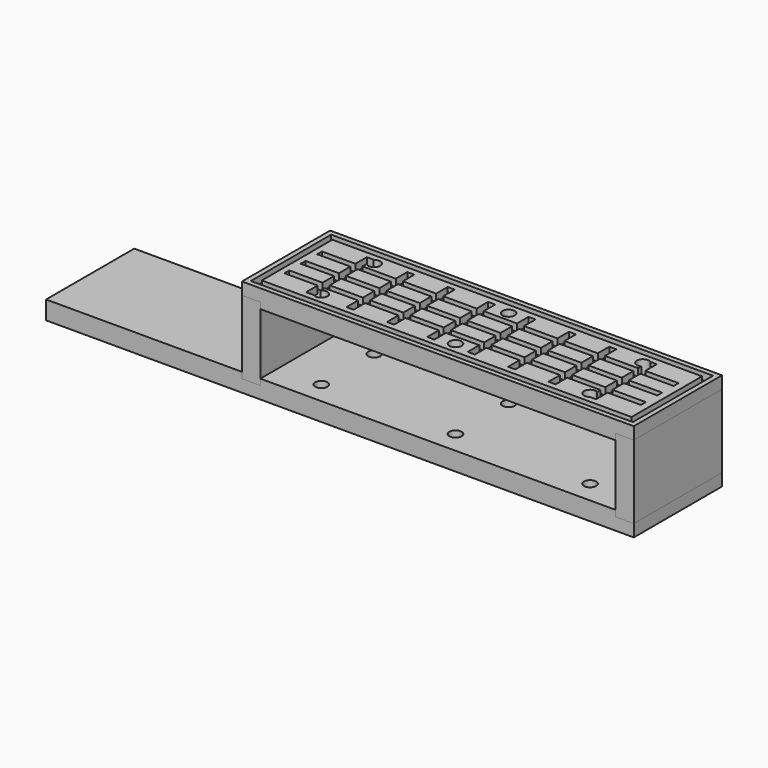
from build123d import *

# Parameters (mm, degrees)
F1_DEPTH = 114.3
F2_DEPTH = 114.3
F3_W     = 599.44
F3_H     = 104.14
F3_W_2   = 586.74
F3_H_2   = 91.44
F3_W_3   = 576.58
F3_H_3   = 81.28
F3_W_4   = 34.30524
F3_H_4   = 11.9109907751
F3_H_5   = 12.8405046124
F3_H_6   = 11.938
F4_DEPTH = 7.62
F5_R     = 6.35
F6_DEPTH = 101.601
F7_W     = 396.24
F7_H     = 104.14
F7_W_2   = 383.54
F7_H_2   = 91.44
F7_W_3   = 34.544
F7_H_3   = 14.9225
F8_DEPTH = 7.62


with BuildPart() as f1:
    # F0 (on Front) → F1 (new body)
    with BuildSketch(Plane.XZ):
        Polygon((203.2, 38.1), (203.2, 50.8), (-203.2, 50.8), (-203.2, 38.1), (-184.15, 38.1), (-184.15, 31.75), (184.15, 31.75), (184.15, 38.1), align=None)
    extrude(amount=-F1_DEPTH)


with BuildPart() as f1b:
    # F0 (on Front) → F1, piece 2 (new body)
    with BuildSketch(Plane.XZ):
        Polygon((203.2, -50.8), (203.2, -38.1), (184.15, -38.1), (184.15, -31.75), (-184.15, -31.75), (-184.15, -38.1), (-203.2, -38.1), (-203.2, -31.75), (-406.4, -31.75), (-406.4, -50.8), (-203.2, -50.8), align=None)
    extrude(amount=-F1_DEPTH)

    # F3 (on face) → F4 (cut)
    with BuildSketch(Plane(origin=(0, 0, -50.8), x_dir=(1, 0, 0), z_dir=(0, 0, -1))):
        with Locations((-101.6, -57.15)):
            Rectangle(F3_W, F3_H)
        with Locations((-101.6, -57.15)):
            Rectangle(F3_W_2, F3_H_2, mode=Mode.SUBTRACT)
        with Locations((-101.6, -57.15)):
            Rectangle(F3_W_3, F3_H_3)
        with Locations((-366.38738, -85.4845046124)):
            Rectangle(F3_W_4, F3_H_4, mode=Mode.SUBTRACT)
        with Locations((-325.65086, -85.4845046124)):
            Rectangle(F3_W_4, F3_H_4, mode=Mode.SUBTRACT)
        with Locations((-284.91434, -85.4845046124)):
            Rectangle(F3_W_4, F3_H_4, mode=Mode.SUBTRACT)
        with Locations((-366.38738, -66.7587569187)):
            Rectangle(F3_W_4, F3_H_5, mode=Mode.SUBTRACT)
        with Locations((-325.65086, -66.7587569187)):
            Rectangle(F3_W_4, F3_H_5, mode=Mode.SUBTRACT)
        with Locations((-284.91434, -66.7587569187)):
            Rectangle(F3_W_4, F3_H_5, mode=Mode.SUBTRACT)
        with Locations((-244.17782, -85.4845046124)):
            Rectangle(F3_W_4, F3_H_4, mode=Mode.SUBTRACT)
        with Locations((-203.4413, -85.4845046124)):
            Rectangle(F3_W_4, F3_H_4, mode=Mode.SUBTRACT)
        with Locations((-162.70478, -85.4845046124)):
            Rectangle(F3_W_4, F3_H_4, mode=Mode.SUBTRACT)
        with Locations((-121.96826, -85.4845046124)):
            Rectangle(F3_W_4, F3_H_4, mode=Mode.SUBTRACT)
        with Locations((-244.17782, -66.7587569187)):
            Rectangle(F3_W_4, F3_H_5, mode=Mode.SUBTRACT)
        with Locations((-203.4413, -66.7587569187)):
            Rectangle(F3_W_4, F3_H_5, mode=Mode.SUBTRACT)
        with Locations((-162.70478, -66.7587569187)):
            Rectangle(F3_W_4, F3_H_5, mode=Mode.SUBTRACT)
        with Locations((-121.96826, -66.7587569187)):
            Rectangle(F3_W_4, F3_H_5, mode=Mode.SUBTRACT)
        with Locations((-81.23174, -85.4845046124)):
            Rectangle(F3_W_4, F3_H_4, mode=Mode.SUBTRACT)
        with Locations((-40.49522, -85.4845046124)):
            Rectangle(F3_W_4, F3_H_4, mode=Mode.SUBTRACT)
        with Locations((0.2413, -85.4845046124)):
            Rectangle(F3_W_4, F3_H_4, mode=Mode.SUBTRACT)
        with Locations((40.97782, -85.4845046124)):
            Rectangle(F3_W_4, F3_H_4, mode=Mode.SUBTRACT)
        with Locations((-81.23174, -66.7587569187)):
            Rectangle(F3_W_4, F3_H_5, mode=Mode.SUBTRACT)
        with Locations((-40.49522, -66.7587569187)):
            Rectangle(F3_W_4, F3_H_5, mode=Mode.SUBTRACT)
        with Locations((0.2413, -66.7587569187)):
            Rectangle(F3_W_4, F3_H_5, mode=Mode.SUBTRACT)
        with Locations((40.97782, -66.7587569187)):
            Rectangle(F3_W_4, F3_H_5, mode=Mode.SUBTRACT)
        with Locations((81.71434, -85.4845046124)):
            Rectangle(F3_W_4, F3_H_4, mode=Mode.SUBTRACT)
        with Locations((122.45086, -85.4845046124)):
            Rectangle(F3_W_4, F3_H_4, mode=Mode.SUBTRACT)
        with Locations((163.18738, -85.4845046124)):
            Rectangle(F3_W_4, F3_H_4, mode=Mode.SUBTRACT)
        with Locations((81.71434, -66.7587569187)):
            Rectangle(F3_W_4, F3_H_5, mode=Mode.SUBTRACT)
        with Locations((122.45086, -66.7587569187)):
            Rectangle(F3_W_4, F3_H_5, mode=Mode.SUBTRACT)
        with Locations((163.18738, -66.7587569187)):
            Rectangle(F3_W_4, F3_H_5, mode=Mode.SUBTRACT)
        with Locations((-366.38738, -47.5682523062)):
            Rectangle(F3_W_4, F3_H_5, mode=Mode.SUBTRACT)
        with Locations((-325.65086, -47.5682523062)):
            Rectangle(F3_W_4, F3_H_5, mode=Mode.SUBTRACT)
        with Locations((-284.91434, -47.5682523062)):
            Rectangle(F3_W_4, F3_H_5, mode=Mode.SUBTRACT)
        with Locations((-366.38738, -28.829)):
            Rectangle(F3_W_4, F3_H_6, mode=Mode.SUBTRACT)
        with Locations((-325.65086, -28.829)):
            Rectangle(F3_W_4, F3_H_6, mode=Mode.SUBTRACT)
        with Locations((-284.91434, -28.829)):
            Rectangle(F3_W_4, F3_H_6, mode=Mode.SUBTRACT)
        with Locations((-244.17782, -47.5682523062)):
            Rectangle(F3_W_4, F3_H_5, mode=Mode.SUBTRACT)
        with Locations((-203.4413, -47.5682523062)):
            Rectangle(F3_W_4, F3_H_5, mode=Mode.SUBTRACT)
        with Locations((-162.70478, -47.5682523062)):
            Rectangle(F3_W_4, F3_H_5, mode=Mode.SUBTRACT)
        with Locations((-121.96826, -47.5682523062)):
            Rectangle(F3_W_4, F3_H_5, mode=Mode.SUBTRACT)
        with Locations((-244.17782, -28.829)):
            Rectangle(F3_W_4, F3_H_6, mode=Mode.SUBTRACT)
        with Locations((-203.4413, -28.829)):
            Rectangle(F3_W_4, F3_H_6, mode=Mode.SUBTRACT)
        with Locations((-162.70478, -28.829)):
            Rectangle(F3_W_4, F3_H_6, mode=Mode.SUBTRACT)
        with Locations((-121.96826, -28.829)):
            Rectangle(F3_W_4, F3_H_6, mode=Mode.SUBTRACT)
        with Locations((-81.23174, -47.5682523062)):
            Rectangle(F3_W_4, F3_H_5, mode=Mode.SUBTRACT)
        with Locations((-40.49522, -47.5682523062)):
            Rectangle(F3_W_4, F3_H_5, mode=Mode.SUBTRACT)
        with Locations((0.2413, -47.5682523062)):
            Rectangle(F3_W_4, F3_H_5, mode=Mode.SUBTRACT)
        with Locations((40.97782, -47.5682523062)):
            Rectangle(F3_W_4, F3_H_5, mode=Mode.SUBTRACT)
        with Locations((-81.23174, -28.829)):
            Rectangle(F3_W_4, F3_H_6, mode=Mode.SUBTRACT)
        with Locations((-40.49522, -28.829)):
            Rectangle(F3_W_4, F3_H_6, mode=Mode.SUBTRACT)
        with Locations((0.2413, -28.829)):
            Rectangle(F3_W_4, F3_H_6, mode=Mode.SUBTRACT)
        with Locations((40.97782, -28.829)):
            Rectangle(F3_W_4, F3_H_6, mode=Mode.SUBTRACT)
        with Locations((81.71434, -47.5682523062)):
            Rectangle(F3_W_4, F3_H_5, mode=Mode.SUBTRACT)
        with Locations((122.45086, -47.5682523062)):
            Rectangle(F3_W_4, F3_H_5, mode=Mode.SUBTRACT)
        with Locations((163.18738, -47.5682523062)):
            Rectangle(F3_W_4, F3_H_5, mode=Mode.SUBTRACT)
        with Locations((81.71434, -28.829)):
            Rectangle(F3_W_4, F3_H_6, mode=Mode.SUBTRACT)
        with Locations((122.45086, -28.829)):
            Rectangle(F3_W_4, F3_H_6, mode=Mode.SUBTRACT)
        with Locations((163.18738, -28.829)):
            Rectangle(F3_W_4, F3_H_6, mode=Mode.SUBTRACT)
    extrude(amount=-F4_DEPTH, mode=Mode.SUBTRACT)


with BuildPart() as f2:
    # F0 (on Front) → F2 (new body)
    with BuildSketch(Plane.XZ):
        Polygon((-184.15, 38.1), (-203.2, 38.1), (-203.2, -31.75), (-203.2, -38.1), (-184.15, -38.1), (-184.15, -31.75), (-184.15, 31.75), align=None)
    extrude(amount=-F2_DEPTH)


with BuildPart() as f2b:
    # F0 (on Front) → F2, piece 2 (new body)
    with BuildSketch(Plane.XZ):
        Polygon((203.2, -38.1), (203.2, 38.1), (184.15, 38.1), (184.15, 31.75), (184.15, -31.75), (184.15, -38.1), align=None)
    extrude(amount=-F2_DEPTH)


with BuildPart() as f6_tool:
    # F5 (on face) → F6 (new body, through all)
    with BuildSketch(Plane(origin=(0, 0, -50.8), x_dir=(1, 0, 0), z_dir=(0, 0, -1))):
        with Locations((139.60348, -91.44)):
            Circle(F5_R)
        with Locations((139.60348, -22.86)):
            Circle(F5_R)
        with Locations((0, -22.86)):
            Circle(F5_R)
        with Locations((0.2413, -91.44)):
            Circle(F5_R)
        with Locations((-139.12088, -22.86)):
            Circle(F5_R)
        with Locations((-139.12088, -91.44)):
            Circle(F5_R)
    extrude(amount=-F6_DEPTH)


with BuildPart() as f1_1:
    add(f1.part)

    # F6: cut by f6_tool
    add(f6_tool.part, mode=Mode.SUBTRACT)

    # F7 (on face) → F8 (cut)
    with BuildSketch(Plane.XY.offset(50.8)):
        with Locations((0, 57.15)):
            Rectangle(F7_W, F7_H)
        with Locations((0, 57.15)):
            Rectangle(F7_W_2, F7_H_2, mode=Mode.SUBTRACT)
        with BuildLine():
            Line((-143.51, 96.52), (-150.876, 96.52))
            Line((-150.876, 96.52), (-150.876, 81.5975))
            Line((-150.876, 81.5975), (-185.42, 81.5975))
            Line((-185.42, 81.5975), (-185.42, 75.2475))
            Line((-185.42, 75.2475), (-150.876, 75.2475))
            Line((-150.876, 75.2475), (-150.876, 60.325))
            Line((-150.876, 60.325), (-185.42, 60.325))
            Line((-185.42, 60.325), (-185.42, 53.975))
            Line((-185.42, 53.975), (-150.876, 53.975))
            Line((-150.876, 53.975), (-150.876, 39.0525))
            Line((-150.876, 39.0525), (-185.42, 39.0525))
            Line((-185.42, 39.0525), (-185.42, 32.7025))
            Line((-185.42, 32.7025), (-150.876, 32.7025))
            Line((-150.876, 32.7025), (-150.876, 17.78))
            Line((-150.876, 17.78), (-143.51, 17.78))
            Line((-143.51, 17.78), (-143.51, 18.2710866618))
            ThreePointArc((-143.51, 18.2710866618), (-145.47088, 22.86), (-143.51, 27.4489133382))
            Line((-143.51, 27.4489133382), (-143.51, 32.7025))
            Line((-143.51, 32.7025), (-108.966, 32.7025))
            Line((-108.966, 32.7025), (-108.966, 17.78))
            Line((-108.966, 17.78), (-101.6, 17.78))
            Line((-101.6, 17.78), (-101.6, 32.7025))
            Line((-101.6, 32.7025), (-67.056, 32.7025))
            Line((-67.056, 32.7025), (-67.056, 17.78))
            Line((-67.056, 17.78), (-59.69, 17.78))
            Line((-59.69, 17.78), (-59.69, 32.7025))
            Line((-59.69, 32.7025), (-25.146, 32.7025))
            Line((-25.146, 32.7025), (-25.146, 17.78))
            Line((-25.146, 17.78), (-17.78, 17.78))
            Line((-17.78, 17.78), (-17.78, 32.7025))
            Line((-17.78, 32.7025), (16.764, 32.7025))
            Line((16.764, 32.7025), (16.764, 17.78))
            Line((16.764, 17.78), (24.13, 17.78))
            Line((24.13, 17.78), (24.13, 32.7025))
            Line((24.13, 32.7025), (58.674, 32.7025))
            Line((58.674, 32.7025), (58.674, 17.78))
            Line((58.674, 17.78), (66.04, 17.78))
            Line((66.04, 17.78), (66.04, 32.7025))
            Line((66.04, 32.7025), (100.584, 32.7025))
            Line((100.584, 32.7025), (100.584, 17.78))
            Line((100.584, 17.78), (107.95, 17.78))
            Line((107.95, 17.78), (107.95, 32.7025))
            Line((107.95, 32.7025), (142.494, 32.7025))
            Line((142.494, 32.7025), (142.494, 28.513971536))
            ThreePointArc((142.494, 28.513971536), (145.0199965005, 26.1741890411), (145.95348, 22.86))
            ThreePointArc((145.95348, 22.86), (145.2830926628, 20.0201936686), (143.41348, 17.78))
            Line((143.41348, 17.78), (149.86, 17.78))
            Line((149.86, 17.78), (149.86, 32.7025))
            Line((149.86, 32.7025), (184.404, 32.7025))
            Line((184.404, 32.7025), (184.404, 39.0525))
            Line((184.404, 39.0525), (149.86, 39.0525))
            Line((149.86, 39.0525), (149.86, 53.975))
            Line((149.86, 53.975), (184.404, 53.975))
            Line((184.404, 53.975), (184.404, 60.325))
            Line((184.404, 60.325), (149.86, 60.325))
            Line((149.86, 60.325), (149.86, 75.2475))
            Line((149.86, 75.2475), (184.404, 75.2475))
            Line((184.404, 75.2475), (184.404, 81.5975))
            Line((184.404, 81.5975), (149.86, 81.5975))
            Line((149.86, 81.5975), (149.86, 96.52))
            Line((149.86, 96.52), (143.41348, 96.52))
            ThreePointArc((143.41348, 96.52), (145.2830926628, 94.2798063314), (145.95348, 91.44))
            ThreePointArc((145.95348, 91.44), (145.0199965005, 88.1258109589), (142.494, 85.786028464))
            Line((142.494, 85.786028464), (142.494, 81.5975))
            Line((142.494, 81.5975), (107.95, 81.5975))
            Line((107.95, 81.5975), (107.95, 96.52))
            Line((107.95, 96.52), (100.584, 96.52))
            Line((100.584, 96.52), (100.584, 81.5975))
            Line((100.584, 81.5975), (66.04, 81.5975))
            Line((66.04, 81.5975), (66.04, 96.52))
            Line((66.04, 96.52), (58.674, 96.52))
            Line((58.674, 96.52), (58.674, 81.5975))
            Line((58.674, 81.5975), (24.13, 81.5975))
            Line((24.13, 81.5975), (24.13, 96.52))
            Line((24.13, 96.52), (16.764, 96.52))
            Line((16.764, 96.52), (16.764, 81.5975))
            Line((16.764, 81.5975), (-17.78, 81.5975))
            Line((-17.78, 81.5975), (-17.78, 96.52))
            Line((-17.78, 96.52), (-25.146, 96.52))
            Line((-25.146, 96.52), (-25.146, 81.5975))
            Line((-25.146, 81.5975), (-59.69, 81.5975))
            Line((-59.69, 81.5975), (-59.69, 96.52))
            Line((-59.69, 96.52), (-67.056, 96.52))
            Line((-67.056, 96.52), (-67.056, 81.5975))
            Line((-67.056, 81.5975), (-101.6, 81.5975))
            Line((-101.6, 81.5975), (-101.6, 96.52))
            Line((-101.6, 96.52), (-108.966, 96.52))
            Line((-108.966, 96.52), (-108.966, 81.5975))
            Line((-108.966, 81.5975), (-143.51, 81.5975))
            Line((-143.51, 81.5975), (-143.51, 86.8510866618))
            ThreePointArc((-143.51, 86.8510866618), (-145.47088, 91.44), (-143.51, 96.0289133382))
            Line((-143.51, 96.0289133382), (-143.51, 96.52))
        make_face()
        with Locations((-126.238, 46.51375)):
            Rectangle(F7_W_3, F7_H_3, mode=Mode.SUBTRACT)
        with Locations((-84.328, 46.51375)):
            Rectangle(F7_W_3, F7_H_3, mode=Mode.SUBTRACT)
        with Locations((-42.418, 46.51375)):
            Rectangle(F7_W_3, F7_H_3, mode=Mode.SUBTRACT)
        with Locations((-0.508, 46.51375)):
            Rectangle(F7_W_3, F7_H_3, mode=Mode.SUBTRACT)
        with Locations((41.402, 46.51375)):
            Rectangle(F7_W_3, F7_H_3, mode=Mode.SUBTRACT)
        with Locations((83.312, 46.51375)):
            Rectangle(F7_W_3, F7_H_3, mode=Mode.SUBTRACT)
        with Locations((125.222, 46.51375)):
            Rectangle(F7_W_3, F7_H_3, mode=Mode.SUBTRACT)
        with Locations((-126.238, 67.78625)):
            Rectangle(F7_W_3, F7_H_3, mode=Mode.SUBTRACT)
        with Locations((-84.328, 67.78625)):
            Rectangle(F7_W_3, F7_H_3, mode=Mode.SUBTRACT)
        with Locations((-42.418, 67.78625)):
            Rectangle(F7_W_3, F7_H_3, mode=Mode.SUBTRACT)
        with Locations((-0.508, 67.78625)):
            Rectangle(F7_W_3, F7_H_3, mode=Mode.SUBTRACT)
        with Locations((41.402, 67.78625)):
            Rectangle(F7_W_3, F7_H_3, mode=Mode.SUBTRACT)
        with Locations((83.312, 67.78625)):
            Rectangle(F7_W_3, F7_H_3, mode=Mode.SUBTRACT)
        with Locations((125.222, 67.78625)):
            Rectangle(F7_W_3, F7_H_3, mode=Mode.SUBTRACT)
    extrude(amount=-F8_DEPTH, mode=Mode.SUBTRACT)


with BuildPart() as f1b_1:
    add(f1b.part)

    # F6: cut by f6_tool
    add(f6_tool.part, mode=Mode.SUBTRACT)


solid = Compound([f2.part, f2b.part, f1_1.part, f1b_1.part])
